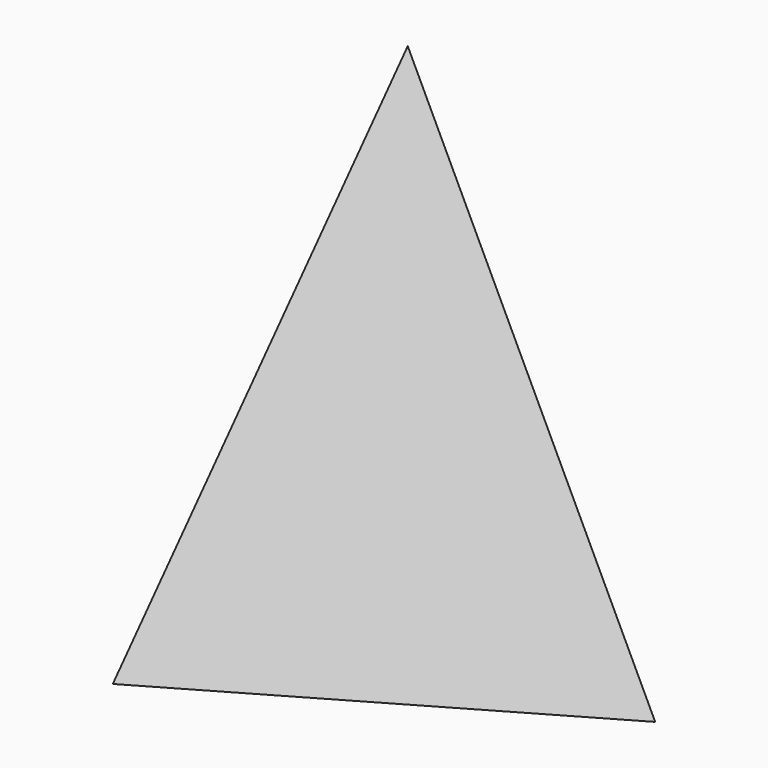
from build123d import *


with BuildPart() as f3:
    # F0 (on Top) → F3 section 0
    with BuildSketch(Plane.XY, mode=Mode.PRIVATE) as f3_s0:
        Polygon((-30.076624, 52.005762), (-29.999999, -52.050002), (60.076624, 0.044239), align=None)
    loft([f3_s0.sketch, Vertex(0, 0, 125)])


solid = f3.part
